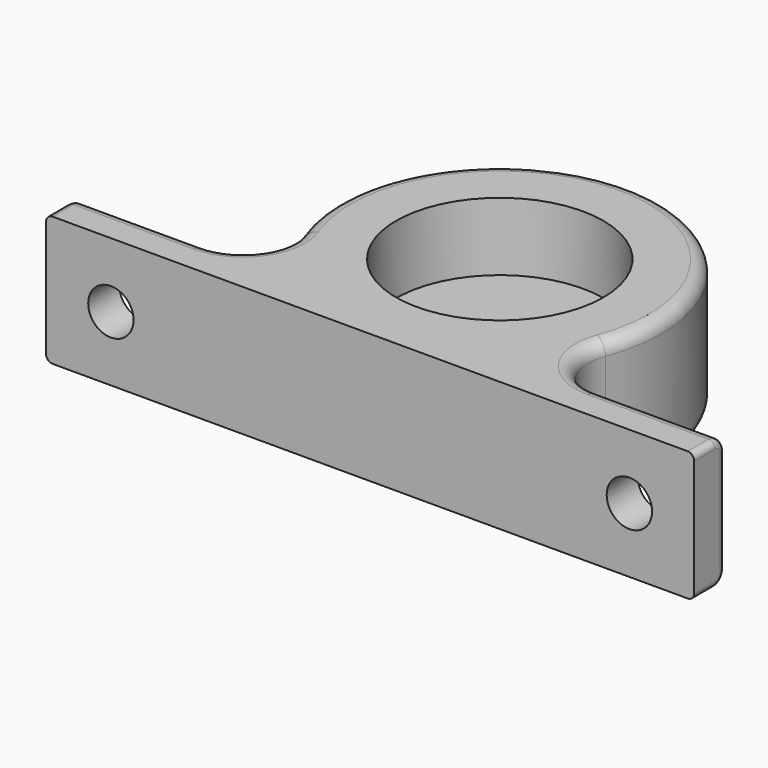
from build123d import *

# Parameters (mm, degrees)
PAD_DEPTH       = 20
SKETCH001_R     = 16
POCKET_DEPTH    = 10.5
SKETCH002_R     = 3.5
POCKET001_DEPTH = 10
FILLET_R        = 2
FILLET001_R     = 2
FILLET002_R     = 1
FILLET003_R     = 1


with BuildPart() as part:
    # Sketch → Pad (new body)
    with BuildSketch(Plane.XY):
        with BuildLine():
            Line((-50, -3), (-50, 3))
            Line((-50, 3), (-30.4, 3))
            ThreePointArc((-30.4, 3), (-24.229838, 6.236305), (-23.384615, 13.15224))
            ThreePointArc((23.384615, 13.15224), (0, 46.993041), (-23.384615, 13.15224))
            ThreePointArc((23.384615, 13.15224), (24.229838, 6.236305), (30.4, 3))
            Line((30.4, 3), (50, 3))
            Line((50, 3), (50, -3))
            Line((50, -3), (-50, -3))
        make_face()
    extrude(amount=PAD_DEPTH)

    # Sketch001 (on Face10 of Pad) → Pocket (cut)
    with BuildSketch(Plane.XY.offset(20)):
        with Locations((0, 22)):
            Circle(SKETCH001_R)
    extrude(amount=-POCKET_DEPTH, mode=Mode.SUBTRACT)

    # Sketch002 (on Face10 of Pocket) → Pocket001 (cut)
    with BuildSketch(Plane(origin=(0, 3, 0), x_dir=(-1, 0, 0), z_dir=(0, 1, 0))):
        with Locations((-40, 10)):
            Circle(SKETCH002_R)
        with Locations((40, 10)):
            Circle(SKETCH002_R)
    extrude(amount=-POCKET001_DEPTH, mode=Mode.SUBTRACT)

    # Fillet
    fillet_edges = [part.edges().sort_by_distance(p)[0] for p in [
        (0, 46.993041, 20),
    ]]
    fillet(fillet_edges, radius=FILLET_R)

    # Fillet001
    fillet001_edges = [part.edges().sort_by_distance(p)[0] for p in [
        (0, 46.993041, 0),
    ]]
    fillet(fillet001_edges, radius=FILLET001_R)

    # Fillet002
    fillet002_edges = [part.edges().sort_by_distance(p)[0] for p in [
        (-50, 3, 10),
    ]]
    fillet(fillet002_edges, radius=FILLET002_R)

    # Fillet003
    fillet003_edges = [part.edges().sort_by_distance(p)[0] for p in [
        (50, 3, 10),
    ]]
    fillet(fillet003_edges, radius=FILLET003_R)


solid = part.part
